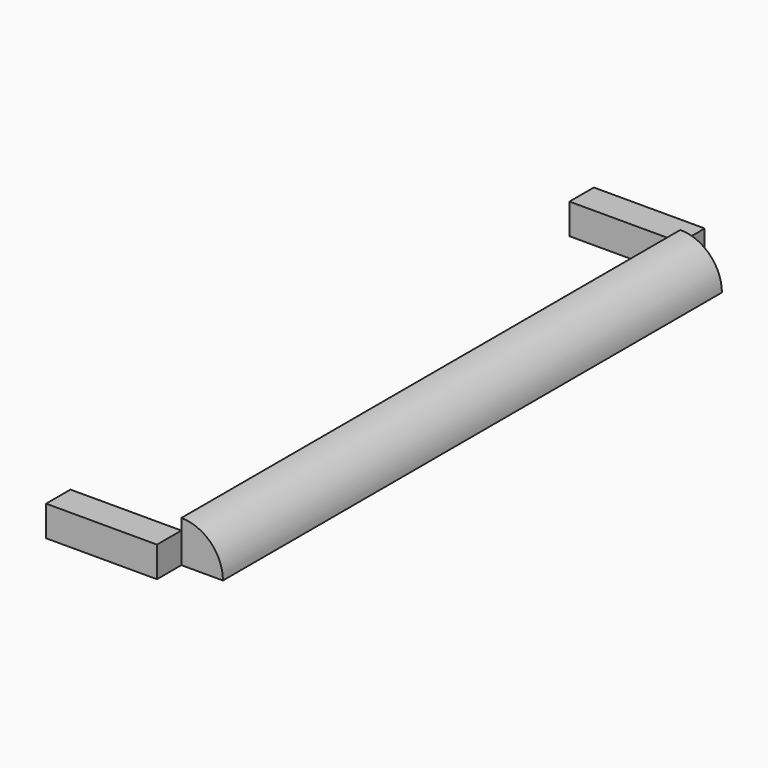
from build123d import *

# Parameters (mm, degrees)
SKETCH002_W    = 80
SKETCH002_H    = 22
PAD001_DEPTH   = 22
PAD_DEPTH      = 225
PAD_DEPTH_BACK = 225


with BuildPart() as pad001:
    # Sketch002 → Pad001 (new body)
    with BuildSketch(Plane.XY):
        with Locations((40, 236)):
            Rectangle(SKETCH002_W, SKETCH002_H)
        with Locations((40, -236)):
            Rectangle(SKETCH002_W, SKETCH002_H)
    extrude(amount=PAD001_DEPTH)


with BuildPart() as fusion:
    # Sketch → Pad (new body, two sides)
    with BuildSketch(Plane.XZ) as pad_sk:
        with BuildLine():
            ThreePointArc((110, 0), (101.213203, 21.213203), (80, 30))
            Line((80, 30), (80, 0))
            Line((80, 0), (110, 0))
        make_face()
    extrude(amount=PAD_DEPTH)
    extrude(pad_sk.sketch, amount=-PAD_DEPTH_BACK)

    # Fusion: union Pad001
    add(pad001.part)


solid = fusion.part
